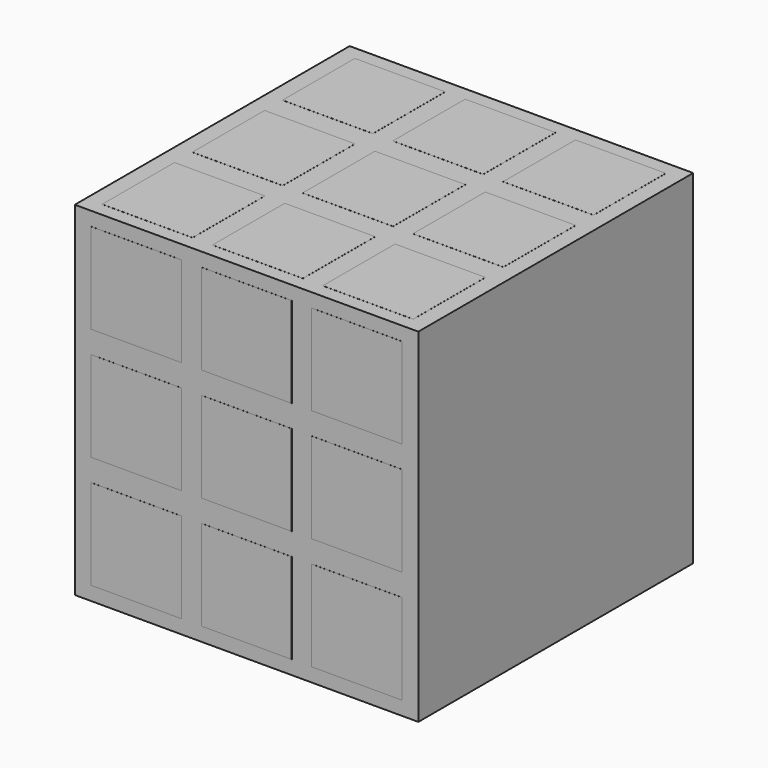
from build123d import *

# Parameters (mm, degrees)
F0_W     = 57
F0_H     = 57
F1_DEPTH = 57
F2_W     = 15
F2_H     = 15
F3_DEPTH = 0.01
F4_W     = 15
F4_H     = 15
F5_DEPTH = 0.01


with BuildPart() as f1:
    # F0 (on Front) → F1 (new body)
    with BuildSketch(Plane.XZ):
        with Locations((-29.06329, -5.599806)):
            Rectangle(F0_W, F0_H)
    extrude(amount=F1_DEPTH)

    # F2 (on face) → F3 (join)
    with BuildSketch(Plane.XY.offset(22.900194)):
        with Locations((-10.76329, -9.8)):
            Rectangle(F2_W, F2_H)
        with Locations((-10.76329, -28.5)):
            Rectangle(F2_W, F2_H)
        with Locations((-10.76329, -47.2)):
            Rectangle(F2_W, F2_H)
        with Locations((-29.06329, -47.2)):
            Rectangle(F2_W, F2_H)
        with Locations((-29.06329, -28.5)):
            Rectangle(F2_W, F2_H)
        with Locations((-29.06329, -9.8)):
            Rectangle(F2_W, F2_H)
        with Locations((-47.36329, -47.2)):
            Rectangle(F2_W, F2_H)
        with Locations((-47.36329, -28.5)):
            Rectangle(F2_W, F2_H)
        with Locations((-47.36329, -9.8)):
            Rectangle(F2_W, F2_H)
    extrude(amount=F3_DEPTH)

    # F4 (on face) → F5 (join)
    with BuildSketch(Plane.XZ.offset(57)):
        with Locations((-10.76329, 13.100194)):
            Rectangle(F4_W, F4_H)
        with Locations((-10.76329, -5.599806)):
            Rectangle(F4_W, F4_H)
        with Locations((-10.76329, -24.299806)):
            Rectangle(F4_W, F4_H)
        with Locations((-29.06329, -24.299806)):
            Rectangle(F4_W, F4_H)
        with Locations((-29.06329, -5.599806)):
            Rectangle(F4_W, F4_H)
        with Locations((-29.06329, 13.100194)):
            Rectangle(F4_W, F4_H)
        with Locations((-47.36329, -24.299806)):
            Rectangle(F4_W, F4_H)
        with Locations((-47.36329, -5.599806)):
            Rectangle(F4_W, F4_H)
        with Locations((-47.36329, 13.100194)):
            Rectangle(F4_W, F4_H)
    extrude(amount=F5_DEPTH)


solid = f1.part
